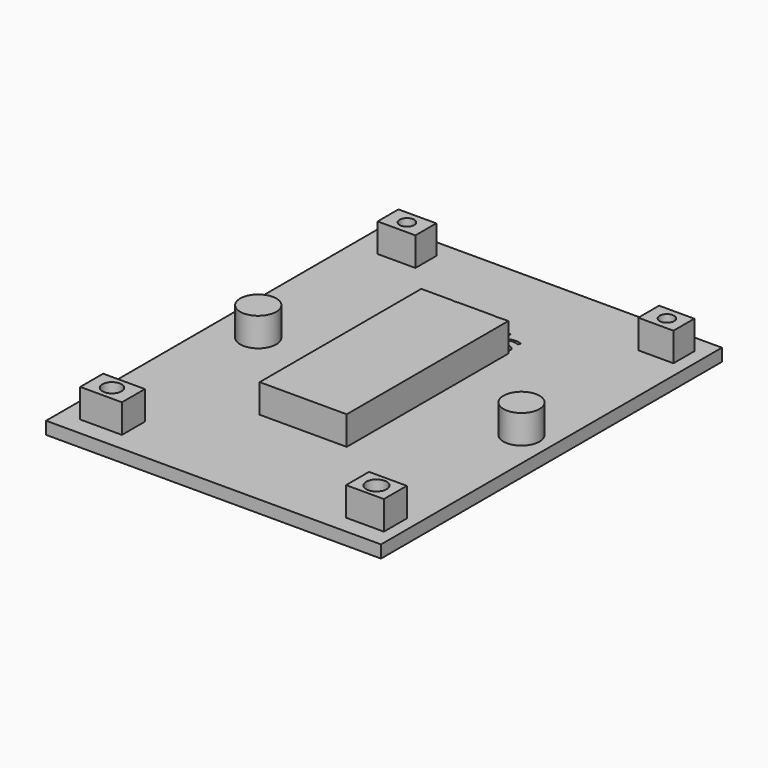
from build123d import *

# Parameters (mm, degrees)
F0_W     = 7.7118072659
F0_H     = 5.301868543
F0_R     = 1.7710457529
F1_DEPTH = 5.08
F2_DEPTH = 5.08
F0_W_2   = 6.9888234138
F0_H_2   = 4.819881171
F0_R_2   = 1.3471992838
F0_W_3   = 6.5068379045
F0_R_3   = 1.3471999502
F0_W_4   = 6.9888252765
F0_R_4   = 1.8915130698
F0_W_5   = 61.9354508817
F0_H_3   = 78.8050293922
F0_R_5   = 3.3414839528
F0_R_6   = 3.3327824733
F3_DEPTH = 2.3114
F4_DEPTH = 5.08
F5_DEPTH = 5.08
F6_DEPTH = 2.54
F7_DEPTH = 2.54


with BuildPart() as f1:
    # F0 (on Top) → F1 (new body)
    with BuildSketch(Plane.XY):
        with Locations((-23.4969137236, -33.3776669577)):
            Rectangle(F0_W, F0_H)
        with Locations((-23.6016474664, -33.3776669577)):
            Circle(F0_R, mode=Mode.SUBTRACT)
    extrude(amount=F1_DEPTH)

    # F6 (add): a face of the model
    f6_faces = [f1.faces().sort_by_distance(p)[0] for p in [
        (-27.2592322182, -33.3776669577, 5.08),
    ]]
    extrude(f6_faces, amount=F6_DEPTH)


with BuildPart() as f2:
    # F0 (on Top) → F2 (new body)
    with BuildSketch(Plane.XY):
        with BuildLine():
            Line((5.4143961645, 18.6770316213), (2.9512789585, 18.6770316213))
            Line((2.9512789585, 18.6770316213), (2.3730507167, 18.6770316213))
            Line((2.3730507167, 18.6770316213), (-1.2022836336, 18.6770316213))
            add(Edge.make_bspline(
                [(-1.2022836336, 18.6770316213), (-1.4853750183, 18.6084282706), (-1.8226430983, 18.6084282706)],
                knots=[0.6245807712, 0.6245807712, 0.6245807712, 1, 1, 1], degree=2))
            add(Edge.make_bspline(
                [(-1.8226430983, 18.6084282706), (-2.1585984814, 18.6084282706), (-2.4376762806, 18.6770316213)],
                knots=[0, 0, 0, 0.3739580419, 0.3739580419, 0.3739580419], degree=2))
            Line((-2.4376762806, 18.6770316213), (-7.3555577815, 18.6770316213))
            Line((-7.3555577815, 18.6770316213), (-8.0486168117, 18.6770316213))
            Line((-8.0486168117, 18.6770316213), (-8.0486168117, -18.6770316213))
            Line((-8.0486168117, -18.6770316213), (8.0486168117, -18.6770316213))
            Line((8.0486168117, -18.6770316213), (8.0486168117, 18.6770316213))
            Line((8.0486168117, 18.6770316213), (6.7350328843, 18.6770316213))
            add(Edge.make_bspline(
                [(6.7350328843, 18.6770316213), (6.465635552, 18.6084282706), (6.1201003968, 18.6084282706)],
                knots=[0.5072784088, 0.5072784088, 0.5072784088, 1, 1, 1], degree=2))
            add(Edge.make_bspline(
                [(6.1201003968, 18.6084282706), (5.7196070649, 18.6084282706), (5.4143961645, 18.6770316213)],
                knots=[0, 0, 0, 0.5400617249, 0.5400617249, 0.5400617249], degree=2))
        make_face()
    extrude(amount=F2_DEPTH)

    # F7 (add): a face of the model
    f7_faces = [f2.faces().sort_by_distance(p)[0] for p in [
        (-0.0004562, -0.0037266133, 5.08),
    ]]
    extrude(f7_faces, amount=F7_DEPTH)


with BuildPart() as f2b:
    # F0 (on Top) → F2, piece 2 (new body)
    with BuildSketch(Plane.XY):
        with Locations((-22.6534344256, 33.6186606437)):
            Rectangle(F0_W_2, F0_H_2)
        with Locations((-22.6534344256, 33.6186606437)):
            Circle(F0_R_2, mode=Mode.SUBTRACT)
    extrude(amount=F2_DEPTH)

    # F6#3 (add): a face of the model
    f6_3_faces = [f2b.faces().sort_by_distance(p)[0] for p in [
        (-22.6534344256, 35.9437042874, 5.08),
    ]]
    extrude(f6_3_faces, amount=F6_DEPTH)


with BuildPart() as f2c:
    # F0 (on Top) → F2, piece 3 (new body)
    with BuildSketch(Plane.XY):
        with Locations((25.3043696284, 33.6186606437)):
            Rectangle(F0_W_3, F0_H_2)
        with Locations((25.4248641431, 33.6186606437)):
            Circle(F0_R_3, mode=Mode.SUBTRACT)
    extrude(amount=F2_DEPTH)

    # F6#4 (add): a face of the model
    f6_4_faces = [f2c.faces().sort_by_distance(p)[0] for p in [
        (22.1319261009, 33.6186606437, 5.08),
    ]]
    extrude(f6_4_faces, amount=F6_DEPTH)


with BuildPart() as f2d:
    # F0 (on Top) → F2, piece 4 (new body)
    with BuildSketch(Plane.XY):
        with Locations((25.3043705598, -33.3776669577)):
            Rectangle(F0_W_4, F0_H)
        with Locations((25.3043705598, -33.3776669577)):
            Circle(F0_R_4, mode=Mode.SUBTRACT)
    extrude(amount=F2_DEPTH)

    # F6#2 (add): a face of the model
    f6_2_faces = [f2d.faces().sort_by_distance(p)[0] for p in [
        (21.8976810592, -33.3776669577, 5.08),
    ]]
    extrude(f6_2_faces, amount=F6_DEPTH)


with BuildPart() as f3:
    # F0 (on Top) → F3 (new body)
    with BuildSketch(Plane.XY):
        Rectangle(F0_W_5, F0_H_3)
        with Locations((-23.4969137236, -33.3776669577)):
            Rectangle(F0_W, F0_H, mode=Mode.SUBTRACT)
        with Locations((25.3043705598, -33.3776669577)):
            Rectangle(F0_W_4, F0_H, mode=Mode.SUBTRACT)
        with Locations((-23.255918175, 0)):
            Circle(F0_R_5, mode=Mode.SUBTRACT)
        with BuildLine():
            Line((2.9512789585, 23.1384273027), (2.9512789585, 18.6770316213))
            Line((2.9512789585, 18.6770316213), (5.4143961645, 18.6770316213))
            add(Edge.make_bspline(
                [(5.4143961645, 18.6770316213), (5.1544662924, 18.7354569926), (4.9636439132, 18.8436397588)],
                knots=[0.5400617249, 0.5400617249, 0.5400617249, 1, 1, 1], degree=2))
            Line((4.9636439132, 18.8436397588), (4.9636439132, 19.3674208969))
            add(Edge.make_bspline(
                [(4.9636439132, 19.3674208969), (5.2326126057, 19.2313031375), (5.5402387419, 19.1534437792)],
                knots=[0, 0, 0, 1, 1, 1], degree=2))
            add(Edge.make_bspline(
                [(5.5402387419, 19.1534437792), (5.8478648781, 19.0755844208), (6.1342566438, 19.0755844208)],
                knots=[0, 0, 0, 1, 1, 1], degree=2))
            add(Edge.make_bspline(
                [(6.1342566438, 19.0755844208), (6.5763671263, 19.0755844208), (6.8143009696, 19.2166024195)],
                knots=[0, 0, 0, 1, 1, 1], degree=2))
            add(Edge.make_bspline(
                [(6.8143009696, 19.2166024195), (7.052234813, 19.3576204182), (7.052234813, 19.6472790102)],
                knots=[0, 0, 0, 1, 1, 1], degree=2))
            add(Edge.make_bspline(
                [(7.052234813, 19.6472790102), (7.052234813, 19.8650674252), (6.8638478341, 20.0196971998)],
                knots=[0, 0, 0, 1, 1, 1], degree=2))
            add(Edge.make_bspline(
                [(6.8638478341, 20.0196971998), (6.6754608551, 20.1743269745), (6.1266340493, 20.385581737)],
                knots=[0, 0, 0, 1, 1, 1], degree=2))
            add(Edge.make_bspline(
                [(6.1266340493, 20.385581737), (5.6061197374, 20.5794134264), (5.3866979093, 20.7242427224)],
                knots=[0, 0, 0, 1, 1, 1], degree=2))
            add(Edge.make_bspline(
                [(5.3866979093, 20.7242427224), (5.1672760812, 20.8690720183), (5.0600152868, 21.052558758)],
                knots=[0, 0, 0, 1, 1, 1], degree=2))
            add(Edge.make_bspline(
                [(5.0600152868, 21.052558758), (4.9527544924, 21.2360454976), (4.9527544924, 21.4908579432)],
                knots=[0, 0, 0, 1, 1, 1], degree=2))
            add(Edge.make_bspline(
                [(4.9527544924, 21.4908579432), (4.9527544924, 21.9471246726), (5.32408374, 22.2111931258)],
                knots=[0, 0, 0, 1, 1, 1], degree=2))
            add(Edge.make_bspline(
                [(5.32408374, 22.2111931258), (5.6954129876, 22.475261579), (6.341155638, 22.475261579)],
                knots=[0, 0, 0, 1, 1, 1], degree=2))
            add(Edge.make_bspline(
                [(6.341155638, 22.475261579), (6.9433406055, 22.475261579), (7.5193909632, 22.2302496121)],
                knots=[0, 0, 0, 1, 1, 1], degree=2))
            Line((7.5193909632, 22.2302496121), (7.3179366793, 21.7707160565))
            add(Edge.make_bspline(
                [(7.3179366793, 21.7707160565), (6.7571315107, 22.0015717764), (6.3008647813, 22.0015717764)],
                knots=[0, 0, 0, 1, 1, 1], degree=2))
            add(Edge.make_bspline(
                [(6.3008647813, 22.0015717764), (5.8990451556, 22.0015717764), (5.6948685165, 21.8757989667)],
                knots=[0, 0, 0, 1, 1, 1], degree=2))
            add(Edge.make_bspline(
                [(5.6948685165, 21.8757989667), (5.4906918775, 21.750026157), (5.4906918775, 21.5289709158)],
                knots=[0, 0, 0, 1, 1, 1], degree=2))
            add(Edge.make_bspline(
                [(5.4906918775, 21.5289709158), (5.4906918775, 21.3786969094), (5.5674622938, 21.2736139992)],
                knots=[0, 0, 0, 1, 1, 1], degree=2))
            add(Edge.make_bspline(
                [(5.5674622938, 21.2736139992), (5.64423271, 21.168531089), (5.8141076737, 21.0732486574)],
                knots=[0, 0, 0, 1, 1, 1], degree=2))
            add(Edge.make_bspline(
                [(5.8141076737, 21.0732486574), (5.9839826374, 20.9779662258), (6.4674729188, 20.7972018414)],
                knots=[0, 0, 0, 1, 1, 1], degree=2))
            add(Edge.make_bspline(
                [(6.4674729188, 20.7972018414), (7.1306386424, 20.5554567007), (7.3636722465, 20.3104447339)],
                knots=[0, 0, 0, 1, 1, 1], degree=2))
            add(Edge.make_bspline(
                [(7.3636722465, 20.3104447339), (7.5967058505, 20.065432767), (7.5967058505, 19.6941035194)],
                knots=[0, 0, 0, 1, 1, 1], degree=2))
            add(Edge.make_bspline(
                [(7.5967058505, 19.6941035194), (7.5967058505, 19.1735892075), (7.2090424718, 18.8910087391)],
                knots=[0, 0, 0, 1, 1, 1], degree=2))
            add(Edge.make_bspline(
                [(7.2090424718, 18.8910087391), (7.01238921, 18.7476617687), (6.7350328843, 18.6770316213)],
                knots=[0, 0, 0, 0.5072784088, 0.5072784088, 0.5072784088], degree=2))
            Line((6.7350328843, 18.6770316213), (8.0486168117, 18.6770316213))
            Line((8.0486168117, 18.6770316213), (8.0486168117, -18.6770316213))
            Line((8.0486168117, -18.6770316213), (-8.0486168117, -18.6770316213))
            Line((-8.0486168117, -18.6770316213), (-8.0486168117, 18.6770316213))
            Line((-8.0486168117, 18.6770316213), (-8.7341584484, 18.6770316213))
            Line((-8.7341584484, 18.6770316213), (-8.7341584484, 23.6524079621))
            Line((-8.7341584484, 23.6524079621), (-7.2096395434, 23.6524079621))
            add(Edge.make_bspline(
                [(-7.2096395434, 23.6524079621), (-6.0488272915, 23.6524079621), (-5.4058069962, 23.0093876668)],
                knots=[0, 0, 0, 1, 1, 1], degree=2))
            add(Edge.make_bspline(
                [(-5.4058069962, 23.0093876668), (-4.7627867009, 22.3663673715), (-4.7627867009, 21.212088772)],
                knots=[0, 0, 0, 1, 1, 1], degree=2))
            add(Edge.make_bspline(
                [(-4.7627867009, 21.212088772), (-4.7627867009, 19.9804952851), (-5.4313971349, 19.3287634532)],
                knots=[0, 0, 0, 1, 1, 1], degree=2))
            add(Edge.make_bspline(
                [(-5.4313971349, 19.3287634532), (-6.100007569, 18.6770316213), (-7.3555577815, 18.6770316213)],
                knots=[0, 0, 0, 1, 1, 1], degree=2))
            Line((-7.3555577815, 18.6770316213), (-2.4376762806, 18.6770316213))
            add(Edge.make_bspline(
                [(-2.4376762806, 18.6770316213), (-2.9048795289, 18.7918802707), (-3.2126776571, 19.0989966754)],
                knots=[0.3739580419, 0.3739580419, 0.3739580419, 1, 1, 1], degree=2))
            add(Edge.make_bspline(
                [(-3.2126776571, 19.0989966754), (-3.7043350039, 19.5895650802), (-3.7043350039, 20.4465624932)],
                knots=[0, 0, 0, 1, 1, 1], degree=2))
            Line((-3.7043350039, 20.4465624932), (-3.7043350039, 23.6524079621))
            Line((-3.7043350039, 23.6524079621), (-3.12501782, 23.6524079621))
            Line((-3.12501782, 23.6524079621), (-3.12501782, 20.4062716365))
            add(Edge.make_bspline(
                [(-3.12501782, 20.4062716365), (-3.12501782, 19.7833967696), (-2.7847234216, 19.4496360236)],
                knots=[0, 0, 0, 1, 1, 1], degree=2))
            add(Edge.make_bspline(
                [(-2.7847234216, 19.4496360236), (-2.4444290232, 19.1158752776), (-1.7845301257, 19.1158752776)],
                knots=[0, 0, 0, 1, 1, 1], degree=2))
            add(Edge.make_bspline(
                [(-1.7845301257, 19.1158752776), (-1.1551216063, 19.1158752776), (-0.8148272079, 19.4512694367)],
                knots=[0, 0, 0, 1, 1, 1], degree=2))
            add(Edge.make_bspline(
                [(-0.8148272079, 19.4512694367), (-0.4745328095, 19.7866635958), (-0.4745328095, 20.4128052889)],
                knots=[0, 0, 0, 1, 1, 1], degree=2))
            Line((-0.4745328095, 20.4128052889), (-0.4745328095, 23.6524079621))
            Line((-0.4745328095, 23.6524079621), (0.1036954324, 23.6524079621))
            Line((0.1036954324, 23.6524079621), (0.1036954324, 20.4334951883))
            add(Edge.make_bspline(
                [(0.1036954324, 20.4334951883), (0.1036954324, 19.5819424857), (-0.410285227, 19.0951853781)],
                knots=[0, 0, 0, 1, 1, 1], degree=2))
            add(Edge.make_bspline(
                [(-0.410285227, 19.0951853781), (-0.7313076637, 18.7911662485), (-1.2022836336, 18.6770316213)],
                knots=[0, 0, 0, 0.6245807712, 0.6245807712, 0.6245807712], degree=2))
            Line((-1.2022836336, 18.6770316213), (2.3730507167, 18.6770316213))
            Line((2.3730507167, 18.6770316213), (2.3730507167, 23.1384273027))
            Line((2.3730507167, 23.1384273027), (0.7973515342, 23.1384273027))
            Line((0.7973515342, 23.1384273027), (0.7973515342, 23.6524079621))
            Line((0.7973515342, 23.6524079621), (4.5269781411, 23.6524079621))
            Line((4.5269781411, 23.6524079621), (4.5269781411, 23.1384273027))
            Line((4.5269781411, 23.1384273027), (2.9512789585, 23.1384273027))
        make_face(mode=Mode.SUBTRACT)
        with Locations((-22.6534344256, 33.6186606437)):
            Rectangle(F0_W_2, F0_H_2, mode=Mode.SUBTRACT)
        with Locations((25.4248641431, 0)):
            Circle(F0_R_6, mode=Mode.SUBTRACT)
        with Locations((25.3043696284, 33.6186606437)):
            Rectangle(F0_W_3, F0_H_2, mode=Mode.SUBTRACT)
    extrude(amount=F3_DEPTH)

    # F0 (on Top) → F4 (join)
    with BuildSketch(Plane.XY):
        with Locations((25.4248641431, 0)):
            Circle(F0_R_6)
    extrude(amount=F4_DEPTH)

    # F0 (on Top) → F5 (join)
    with BuildSketch(Plane.XY):
        with Locations((-23.255918175, 0)):
            Circle(F0_R_5)
    extrude(amount=F5_DEPTH)

    # F6#5 (add): faces of the model
    f6_5_faces = [f3.faces().sort_by_distance(p)[0] for p in [
        (-23.255918175, 0, 5.08),
        (25.4248641431, 0, 5.08),
    ]]
    extrude(f6_5_faces, amount=F6_DEPTH)


solid = Compound([f1.part, f2.part, f2b.part, f2c.part, f2d.part, f3.part])
